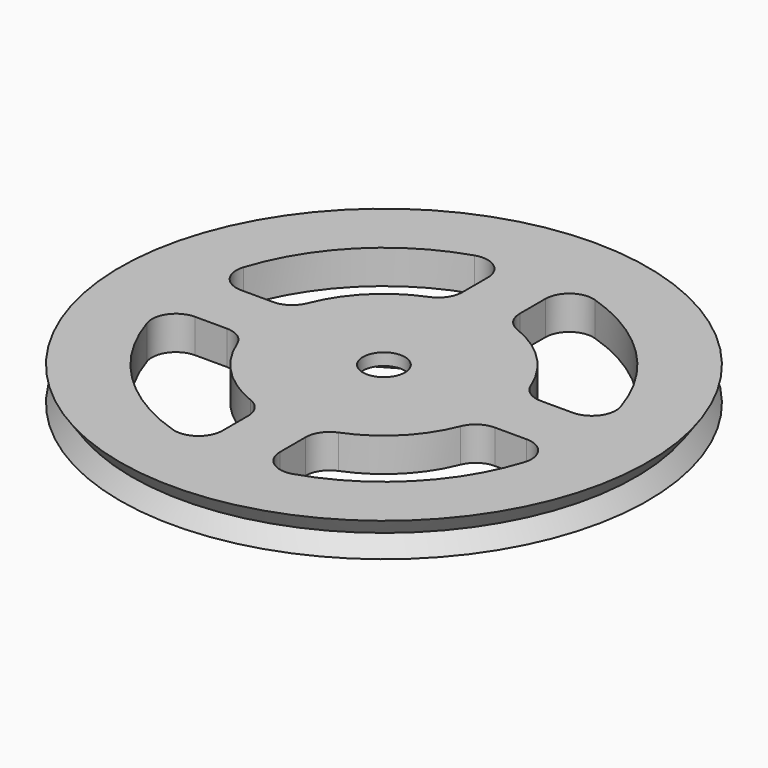
from build123d import *

# Parameters (mm, degrees)
F0_R     = 27.94
F1_DEPTH = 1.7907
F4_R     = 2.2225
F5_DEPTH = 1.27


with BuildPart() as f1:
    # F0 (on Top) → F1 (new body, symmetric)
    with BuildSketch(Plane.XY):
        Circle(F0_R)
        with BuildLine():
            ThreePointArc((-19.966928, -6.358759), (-19.597222, -4.089021), (-17.546694, -3.048))
            Line((-17.546694, -3.048), (-14.17857, -3.048))
            ThreePointArc((-14.17857, -3.048), (-12.749232, -3.488335), (-11.815475, -4.656667))
            ThreePointArc((-11.815475, -4.656667), (-8.980256, -8.980256), (-4.656667, -11.815475))
            ThreePointArc((-4.656667, -11.815475), (-3.488335, -12.749232), (-3.048, -14.17857))
            Line((-3.048, -14.17857), (-3.048, -17.546694))
            ThreePointArc((-3.048, -17.546694), (-4.089021, -19.597222), (-6.358759, -19.966928))
            ThreePointArc((-6.358759, -19.966928), (-14.817423, -14.817423), (-19.966928, -6.358759))
        make_face(mode=Mode.SUBTRACT)
        Polygon((6.35, 3.666174), (6.35, -3.666174), (0, -7.332348), (-6.35, -3.666174), (-6.35, 3.666174), (0, 7.332348), align=None, mode=Mode.SUBTRACT)
        with BuildLine():
            Line((3.048, -17.546694), (3.048, -14.17857))
            ThreePointArc((3.048, -14.17857), (3.488335, -12.749232), (4.656667, -11.815475))
            ThreePointArc((4.656667, -11.815475), (8.980256, -8.980256), (11.815475, -4.656667))
            ThreePointArc((11.815475, -4.656667), (12.749232, -3.488335), (14.17857, -3.048))
            Line((14.17857, -3.048), (17.546694, -3.048))
            ThreePointArc((17.546694, -3.048), (19.597222, -4.089021), (19.966928, -6.358759))
            ThreePointArc((19.966928, -6.358759), (14.817423, -14.817423), (6.358759, -19.966928))
            ThreePointArc((6.358759, -19.966928), (4.089021, -19.597222), (3.048, -17.546694))
        make_face(mode=Mode.SUBTRACT)
        with BuildLine():
            ThreePointArc((-3.048, 14.17857), (-3.488335, 12.749232), (-4.656667, 11.815475))
            ThreePointArc((-4.656667, 11.815475), (-8.980256, 8.980256), (-11.815475, 4.656667))
            ThreePointArc((-11.815475, 4.656667), (-12.749232, 3.488335), (-14.17857, 3.048))
            Line((-14.17857, 3.048), (-17.546694, 3.048))
            ThreePointArc((-17.546694, 3.048), (-19.597222, 4.089021), (-19.966928, 6.358759))
            ThreePointArc((-19.966928, 6.358759), (-14.817423, 14.817423), (-6.358759, 19.966928))
            ThreePointArc((-6.358759, 19.966928), (-4.089021, 19.597222), (-3.048, 17.546694))
            Line((-3.048, 17.546694), (-3.048, 14.17857))
        make_face(mode=Mode.SUBTRACT)
        with BuildLine():
            Line((3.048, 14.17857), (3.048, 17.546694))
            ThreePointArc((3.048, 17.546694), (4.089021, 19.597222), (6.358759, 19.966928))
            ThreePointArc((6.358759, 19.966928), (14.817423, 14.817423), (19.966928, 6.358759))
            ThreePointArc((19.966928, 6.358759), (19.597222, 4.089021), (17.546694, 3.048))
            Line((17.546694, 3.048), (14.17857, 3.048))
            ThreePointArc((14.17857, 3.048), (12.749232, 3.488335), (11.815475, 4.656667))
            ThreePointArc((11.815475, 4.656667), (8.980256, 8.980256), (4.656667, 11.815475))
            ThreePointArc((4.656667, 11.815475), (3.488335, 12.749232), (3.048, 14.17857))
        make_face(mode=Mode.SUBTRACT)
    extrude(amount=F1_DEPTH, both=True)

    # F2 (on Right) → F3 (revolve, cut)
    with BuildSketch(Plane.YZ):
        Polygon((27.94, 1.7907), (26.67, 0), (27.94, -1.7907), align=None)
    revolve(axis=Axis((0, 0, 0.396406), (0, 0, -1)), mode=Mode.SUBTRACT)

    # F4 (on face) → F5 (join)
    with BuildSketch(Plane.XY.offset(1.7907)):
        Polygon((6.35, 3.666174), (0, 7.332348), (-6.35, 3.666174), (-6.35, -3.666174), (0, -7.332348), (6.35, -3.666174), align=None)
        Circle(F4_R, mode=Mode.SUBTRACT)
    extrude(amount=-F5_DEPTH)


solid = f1.part
